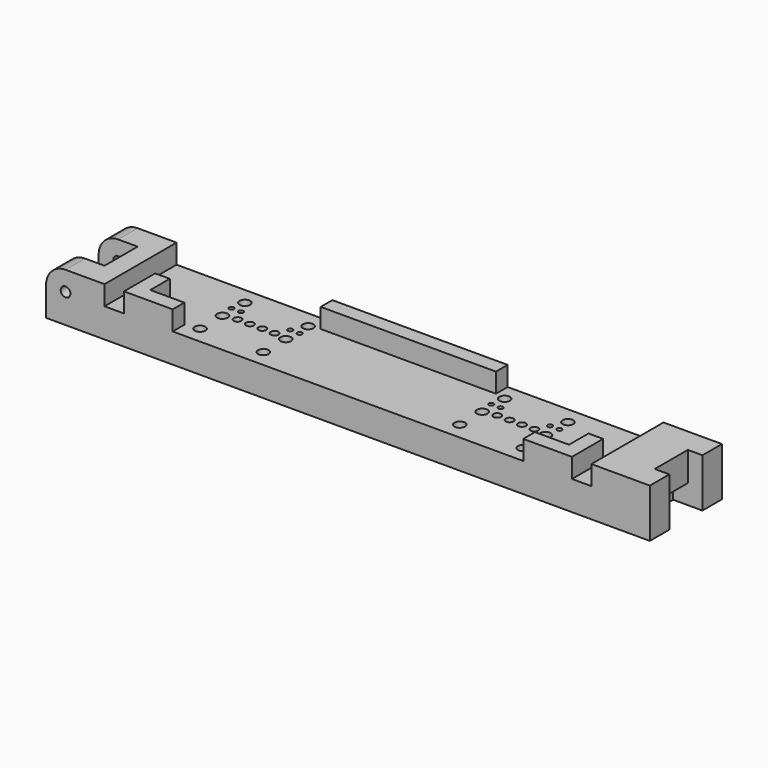
from build123d import *

# Parameters (mm, degrees)
SKETCH_W         = 124
SKETCH_H         = 18.5
SKETCH_R         = 0.5
PAD_DEPTH        = 6
HOLE_D           = 0.7
HOLE_DEPTH       = 25
HOLE_CBORE_D     = 1.6
HOLE_CBORE_DEPTH = 2.1
CHAMFER_SIZE     = 0.2
SKETCH002_W      = 12
SKETCH002_H      = 18.5
SKETCH002_W_2    = 36
SKETCH002_H_2    = 3
PAD001_DEPTH     = 4
CHAMFER001_SIZE  = 0.4
SKETCH003_R      = 1.1
POCKET_DEPTH     = 10.001
CHAMFER002_SIZE  = 0.7
SKETCH004_W      = 8
SKETCH004_H      = 8.5
POCKET001_DEPTH  = 8
SKETCH005_W      = 8.5
SKETCH005_H      = 4
POCKET002_DEPTH  = 6
SKETCH008_R      = 1
HOLE001_DEPTH    = 18.501
FILLET_R         = 4
SKETCH011_W      = 8.5
SKETCH011_H      = 6
POCKET003_DEPTH  = 3


with BuildPart() as part:
    # Sketch → Pad (new body)
    with BuildSketch(Plane(origin=(0, 0, 0), x_dir=(-1, 0, 0), z_dir=(0, 0, -1))):
        with Locations((0, -6.75)):
            Rectangle(SKETCH_W, SKETCH_H)
        with Locations((-33.67, -3.81)):
            Circle(SKETCH_R, mode=Mode.SUBTRACT)
        with Locations((-31.745, -3.81)):
            Circle(SKETCH_R, mode=Mode.SUBTRACT)
        with Locations((-21.595, -3.81)):
            Circle(SKETCH_R, mode=Mode.SUBTRACT)
        with Locations((-19.67, -3.81)):
            Circle(SKETCH_R, mode=Mode.SUBTRACT)
        with Locations((19.67, -3.81)):
            Circle(SKETCH_R, mode=Mode.SUBTRACT)
        with Locations((21.595, -3.81)):
            Circle(SKETCH_R, mode=Mode.SUBTRACT)
        with Locations((31.745, -3.81)):
            Circle(SKETCH_R, mode=Mode.SUBTRACT)
        with Locations((33.67, -3.81)):
            Circle(SKETCH_R, mode=Mode.SUBTRACT)
    extrude(amount=PAD_DEPTH)

    # Hole
    with Locations(Plane.XY):
        with Locations((-30.48, -6.25), (-27.94, -6.25), (-25.4, -6.25), (-22.86, -6.25), (22.86, -6.25), (25.4, -6.25), (27.94, -6.25), (30.48, -6.25)):
            CounterBoreHole(HOLE_D / 2, HOLE_CBORE_D / 2, HOLE_CBORE_DEPTH, depth=HOLE_DEPTH)

    # Chamfer
    chamfer_edges = [part.edges().sort_by_distance(p)[0] for p in [
        (30.13, -6.25, -2.1),
        (27.59, -6.25, -2.1),
        (25.05, -6.25, -2.1),
        (22.51, -6.25, -2.1),
        (-30.83, -6.25, -2.1),
        (-28.29, -6.25, -2.1),
        (-25.75, -6.25, -2.1),
        (-23.21, -6.25, -2.1),
    ]]
    chamfer(chamfer_edges, length=CHAMFER_SIZE)

    # Sketch002 (on Face25 of Chamfer) → Pad001 (join)
    with BuildSketch(Plane.XY):
        with Locations((-56, -6.75)):
            Rectangle(SKETCH002_W, SKETCH002_H)
        with Locations((56, -6.75)):
            Rectangle(SKETCH002_W, SKETCH002_H)
        with Locations((0, 1)):
            Rectangle(SKETCH002_W_2, SKETCH002_H_2)
        Polygon((-46, -16), (-46, -8), (-43, -8), (-43, -13), (-36, -13), (-36, -16), align=None)
        Polygon((46, -16), (46, -8), (43, -8), (43, -13), (36, -13), (36, -16), align=None)
    extrude(amount=PAD001_DEPTH)

    # Chamfer001
    chamfer001_edges = [part.edges().sort_by_distance(p)[0] for p in [
        (34.17, -3.81, -6),
        (32.245, -3.81, -6),
        (22.095, -3.81, -6),
        (20.17, -3.81, -6),
        (-19.17, -3.81, -6),
        (-21.095, -3.81, -6),
        (-31.245, -3.81, -6),
        (-33.17, -3.81, -6),
    ]]
    chamfer(chamfer001_edges, length=CHAMFER001_SIZE)

    # Sketch003 (on Face23 of Chamfer001) → Pocket (cut, through all)
    with BuildSketch(Plane.XY.offset(4)):
        with Locations((-33.17, -1)):
            Circle(SKETCH003_R)
        with Locations((-20.17, -1)):
            Circle(SKETCH003_R)
        with Locations((-33.17, -6.75)):
            Circle(SKETCH003_R)
        with Locations((-20.17, -6.75)):
            Circle(SKETCH003_R)
        with Locations((-20.17, -12.5)):
            Circle(SKETCH003_R)
        with Locations((-33.17, -12.5)):
            Circle(SKETCH003_R)
        with Locations((20.17, -1)):
            Circle(SKETCH003_R)
        with Locations((33.17, -1)):
            Circle(SKETCH003_R)
        with Locations((20.17, -6.75)):
            Circle(SKETCH003_R)
        with Locations((33.17, -6.75)):
            Circle(SKETCH003_R)
        with Locations((33.17, -12.5)):
            Circle(SKETCH003_R)
        with Locations((20.17, -12.5)):
            Circle(SKETCH003_R)
    extrude(amount=-POCKET_DEPTH, mode=Mode.SUBTRACT)

    # Chamfer002
    chamfer002_edges = [part.edges().sort_by_distance(p)[0] for p in [
        (19.07, -6.75, -6),
        (19.07, -1, -6),
        (19.07, -12.5, -6),
        (32.07, -12.5, -6),
        (32.07, -6.75, -6),
        (32.07, -1, -6),
        (-34.27, -1, -6),
        (-34.27, -6.75, -6),
        (-34.27, -12.5, -6),
        (-21.27, -12.5, -6),
        (-21.27, -6.75, -6),
        (-21.27, -1, -6),
    ]]
    chamfer(chamfer002_edges, length=CHAMFER002_SIZE)

    # Sketch004 (on Face35 of Chamfer002) → Pocket001 (cut)
    with BuildSketch(Plane.XY.offset(4)):
        with Locations((-58, -6.75)):
            Rectangle(SKETCH004_W, SKETCH004_H)
    extrude(amount=-POCKET001_DEPTH, mode=Mode.SUBTRACT)

    # Sketch005 (on Face5 of Pocket001) → Pocket002 (cut)
    with BuildSketch(Plane.YZ.offset(62)):
        with Locations((-6.75, -4)):
            Rectangle(SKETCH005_W, SKETCH005_H)
    extrude(amount=-POCKET002_DEPTH, mode=Mode.SUBTRACT)

    # Sketch008 (on Face3 of Pocket002) → Hole001 (cut, through all)
    with BuildSketch(Plane.XZ.offset(16)):
        with Locations((-58, 0)):
            Circle(SKETCH008_R)
    extrude(amount=-HOLE001_DEPTH, mode=Mode.SUBTRACT)

    # Fillet
    fillet_edges = [part.edges().sort_by_distance(p)[0] for p in [
        (-62, 0, 4),
        (-62, -13.5, 4),
    ]]
    fillet(fillet_edges, radius=FILLET_R)

    # Sketch011 (on Face4 of Pocket002) → Pocket003 (cut)
    with BuildSketch(Plane.YZ.offset(62)):
        with Locations((-6.75, 1)):
            Rectangle(SKETCH011_W, SKETCH011_H)
    extrude(amount=-POCKET003_DEPTH, mode=Mode.SUBTRACT)


solid = part.part
